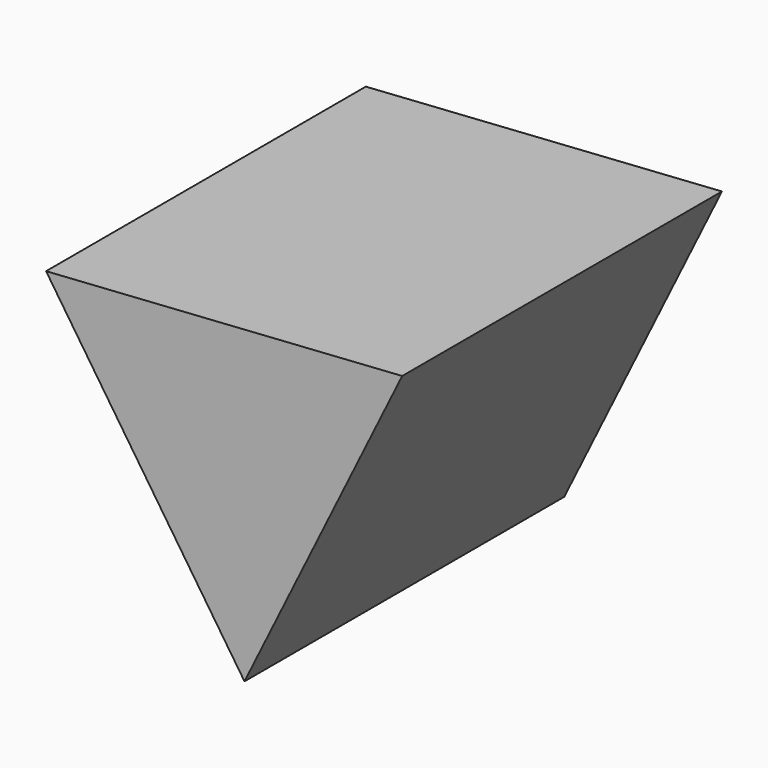
from build123d import *

# Parameters (mm, degrees)
F1_DEPTH = 127


with BuildPart() as f1:
    # F0 (on Front) → F1 (new body, symmetric)
    with BuildSketch(Plane.XZ):
        Polygon((108.83868, 72.798381), (-117.464587, 57.857871), (8.625907, -130.656252), align=None)
        Polygon((3.379381, -60.90665), (-54.436397, 27.526695), (51.057016, 33.379955), align=None, mode=Mode.SUBTRACT)
        Polygon((51.057016, 33.379955), (-54.436397, 27.526695), (3.379381, -60.90665), align=None)
    extrude(amount=F1_DEPTH, both=True)


solid = f1.part
